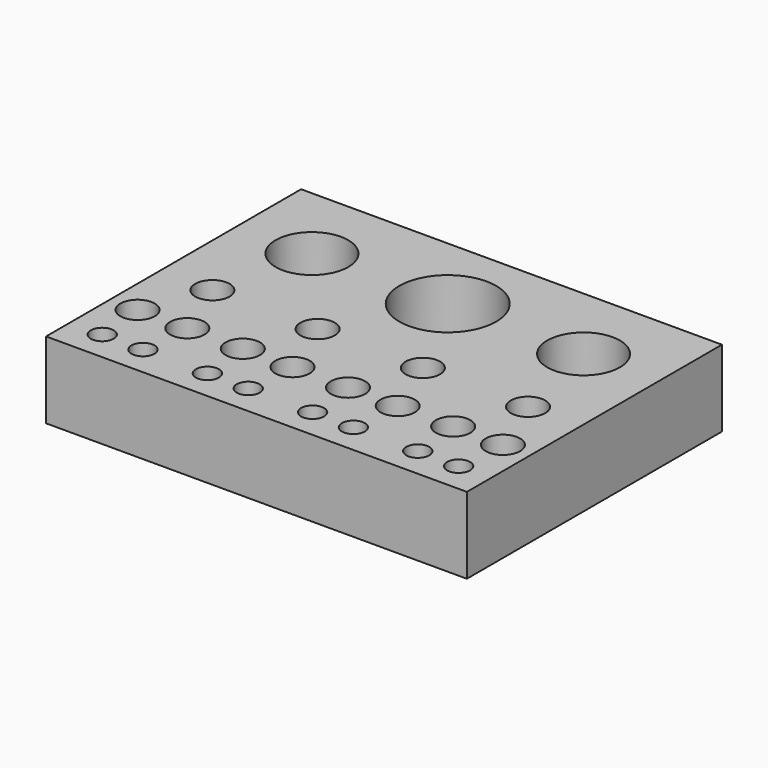
from build123d import *

# Parameters (mm, degrees)
F0_W     = 165
F0_H     = 125
F0_R     = 4.5
F0_R_2   = 6.75
F0_R_3   = 14.25
F0_R_4   = 19
F1_DEPTH = 30


with BuildPart() as f1:
    # F0 (on Top) → F1 (new body)
    with BuildSketch(Plane.XY):
        with Locations((-82.5, 62.5)):
            Rectangle(F0_W, F0_H)
        with Locations((-152.375, 11.71875)):
            Circle(F0_R, mode=Mode.SUBTRACT)
        with Locations((-136.375, 11.71875)):
            Circle(F0_R, mode=Mode.SUBTRACT)
        with Locations((-111.125, 11.71875)):
            Circle(F0_R, mode=Mode.SUBTRACT)
        with Locations((-95.125, 11.71875)):
            Circle(F0_R, mode=Mode.SUBTRACT)
        with Locations((-154.125, 31.25)):
            Circle(F0_R_2, mode=Mode.SUBTRACT)
        with Locations((-134.625, 31.25)):
            Circle(F0_R_2, mode=Mode.SUBTRACT)
        with Locations((-144.375, 55.75)):
            Circle(F0_R_2, mode=Mode.SUBTRACT)
        with Locations((-112.875, 31.25)):
            Circle(F0_R_2, mode=Mode.SUBTRACT)
        with Locations((-93.375, 31.25)):
            Circle(F0_R_2, mode=Mode.SUBTRACT)
        with Locations((-103.125, 55.75)):
            Circle(F0_R_2, mode=Mode.SUBTRACT)
        with Locations((-69.875, 11.71875)):
            Circle(F0_R, mode=Mode.SUBTRACT)
        with Locations((-53.875, 11.71875)):
            Circle(F0_R, mode=Mode.SUBTRACT)
        with Locations((-28.625, 11.71875)):
            Circle(F0_R, mode=Mode.SUBTRACT)
        with Locations((-12.625, 11.71875)):
            Circle(F0_R, mode=Mode.SUBTRACT)
        with Locations((-71.625, 31.25)):
            Circle(F0_R_2, mode=Mode.SUBTRACT)
        with Locations((-52.125, 31.25)):
            Circle(F0_R_2, mode=Mode.SUBTRACT)
        with Locations((-61.875, 55.75)):
            Circle(F0_R_2, mode=Mode.SUBTRACT)
        with Locations((-30.375, 31.25)):
            Circle(F0_R_2, mode=Mode.SUBTRACT)
        with Locations((-10.875, 31.25)):
            Circle(F0_R_2, mode=Mode.SUBTRACT)
        with Locations((-20.625, 55.75)):
            Circle(F0_R_2, mode=Mode.SUBTRACT)
        with Locations((-135.75, 93.75)):
            Circle(F0_R_3, mode=Mode.SUBTRACT)
        with Locations((-82.5, 93.75)):
            Circle(F0_R_4, mode=Mode.SUBTRACT)
        with Locations((-29.25, 93.75)):
            Circle(F0_R_3, mode=Mode.SUBTRACT)
    extrude(amount=F1_DEPTH)


solid = f1.part
